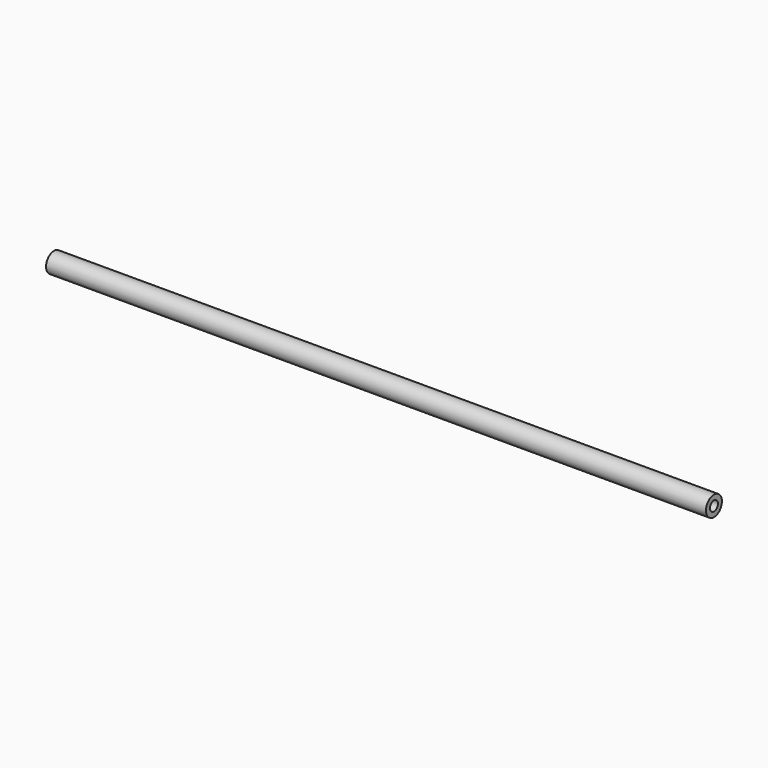
from build123d import *

# Parameters (mm, degrees)
F0_R      = 10
F1_DEPTH  = 638
F1_FACE_R = 10
F2_DEPTH  = 25
F3_R      = 5
F4_DEPTH  = 25


with BuildPart() as f1:
    # F0 (on Right) → F1 (new body)
    with BuildSketch(Plane.YZ):
        Circle(F0_R)
    extrude(amount=F1_DEPTH)

    # F1_face (on face) → F2 (join)
    with BuildSketch(Plane.YZ.offset(638)):
        Circle(F1_FACE_R)
    extrude(amount=F2_DEPTH)

    # F3 (on face) → F4 (cut)
    with BuildSketch(Plane.YZ.offset(663)):
        Circle(F3_R)
    extrude(amount=-F4_DEPTH, mode=Mode.SUBTRACT)


solid = f1.part
